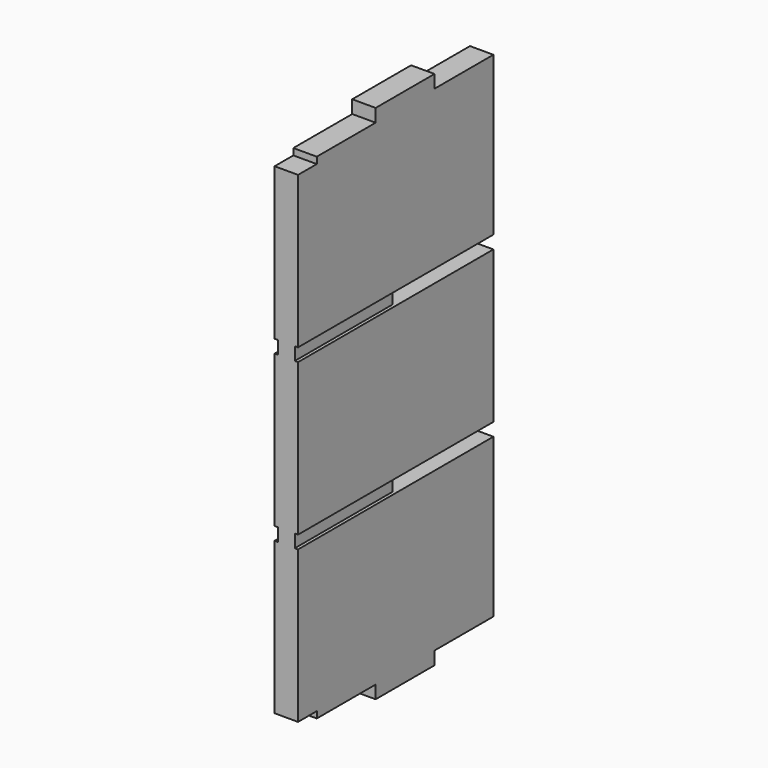
from build123d import *

# Parameters (mm, degrees)
SKETCH004_W     = 18
SKETCH004_H     = 169.6125627158
PAD003_DEPTH    = 5
SKETCH005_W     = 18
SKETCH005_H     = 56.5375209053
PAD004_DEPTH    = 10
PAD005_DEPTH    = 18
SKETCH007_W     = 93.8062813579
SKETCH007_H     = 10
POCKET_DEPTH    = 2.5
SKETCH008_W     = 93.8062813579
SKETCH008_H     = 10
POCKET001_DEPTH = 2.5


with BuildPart() as part:
    # Sketch004 → Pad003 (new body)
    with BuildSketch(Plane.XY):
        with Locations((0, -97.1937186421)):
            Rectangle(SKETCH004_W, SKETCH004_H)
    extrude(amount=PAD003_DEPTH)

    # Sketch005 (on Face5 of Pad003) → Pad004 (join)
    with BuildSketch(Plane(origin=(0, 0, 0), x_dir=(1, 0, 0), z_dir=(0, 0, -1))):
        with Locations((0, 97.1937186421)):
            Rectangle(SKETCH005_W, SKETCH005_H)
    extrude(amount=PAD004_DEPTH)

    # Sketch006 (on Face9 of Pad004) → Pad005 (join)
    with BuildSketch(Plane.YZ.offset(9)):
        Polygon((-12.3874372842, 0), (-68.9249581895, 0), (-68.9249581895, -10), (-125.4624790947, -10), (-125.4624790947, 0), (-182, 0), (-182, 5), (-200, 5), (-200, 375), (-182, 375), (-182, 380), (-125.4624790947, 380), (-125.4624790947, 390), (-68.9249581895, 390), (-68.9249581895, 380), (-12.3874372842, 380), (-12.3874372842, 375), (-12.3874372842, 258.3333333333), (-106.1937186421, 258.3333333333), (-106.1937186421, 248.3333333333), (-12.3874372842, 248.3333333333), (-12.3874372842, 131.6666666667), (-106.1937186421, 131.6666666667), (-106.1937186421, 121.6666666667), (-12.3874372842, 121.6666666667), (-12.3874372842, 5), align=None)
    extrude(amount=-PAD005_DEPTH)

    # Sketch007 (on Face11 of Pad005) → Pocket (cut)
    with BuildSketch(Plane.YZ.offset(9)):
        with Locations((-153.0968593211, 253.3333333333)):
            Rectangle(SKETCH007_W, SKETCH007_H)
        with Locations((-153.0968593211, 126.6666666667)):
            Rectangle(SKETCH007_W, SKETCH007_H)
    extrude(amount=-POCKET_DEPTH, mode=Mode.SUBTRACT)

    # Sketch008 (on Face9 of Pocket) → Pocket001 (cut)
    with BuildSketch(Plane(origin=(-9, 0, 0), x_dir=(0, -1, 0), z_dir=(-1, 0, 0))):
        with Locations((153.0968593211, 126.6666666667)):
            Rectangle(SKETCH008_W, SKETCH008_H)
        with Locations((153.0968593211, 253.3333333333)):
            Rectangle(SKETCH008_W, SKETCH008_H)
    extrude(amount=-POCKET001_DEPTH, mode=Mode.SUBTRACT)


with BuildPart() as part_1:
    # Body004 placement: moved
    add(part.part.moved(Location((0, 0, 13))))


solid = part_1.part
